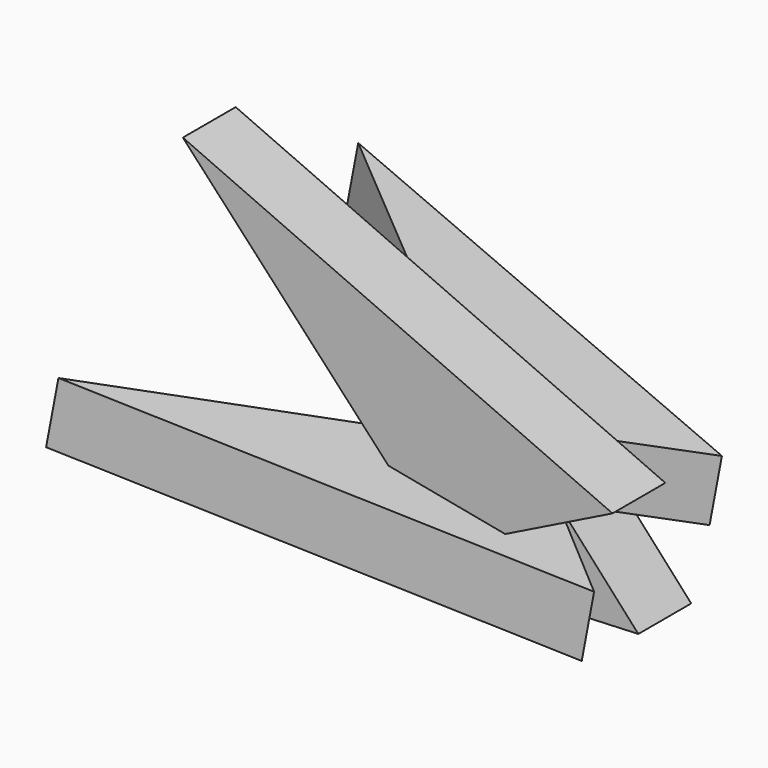
from build123d import *

# Parameters (mm, degrees)
F1_DEPTH = 25.4
F2_COUNT = 4


with BuildPart() as f1:
    # F0 (on Front) → F1 (new body)
    with BuildSketch(Plane.XZ):
        Polygon((17.485429, 39.76443), (58.704976, 60.146142), (-106.379926, 133.608103), (-27.378822, 48.304684), align=None)
    extrude(amount=F1_DEPTH)


with BuildPart() as f2_1:
    # F2: instance of F1
    add(f1.part.rotate(Axis((-4.946697, 0, 44.034557), (-0.98236, 0, 0.187)), 1 * 360 / F2_COUNT))


with BuildPart() as f2_2:
    # F2: instance of F1
    add(f1.part.rotate(Axis((-4.946697, 0, 44.034557), (-0.98236, 0, 0.187)), 2 * 360 / F2_COUNT))


with BuildPart() as f2_3:
    # F2: instance of F1
    add(f1.part.rotate(Axis((-4.946697, 0, 44.034557), (-0.98236, 0, 0.187)), 3 * 360 / F2_COUNT))


solid = Compound([f1.part, f2_1.part, f2_2.part, f2_3.part])
